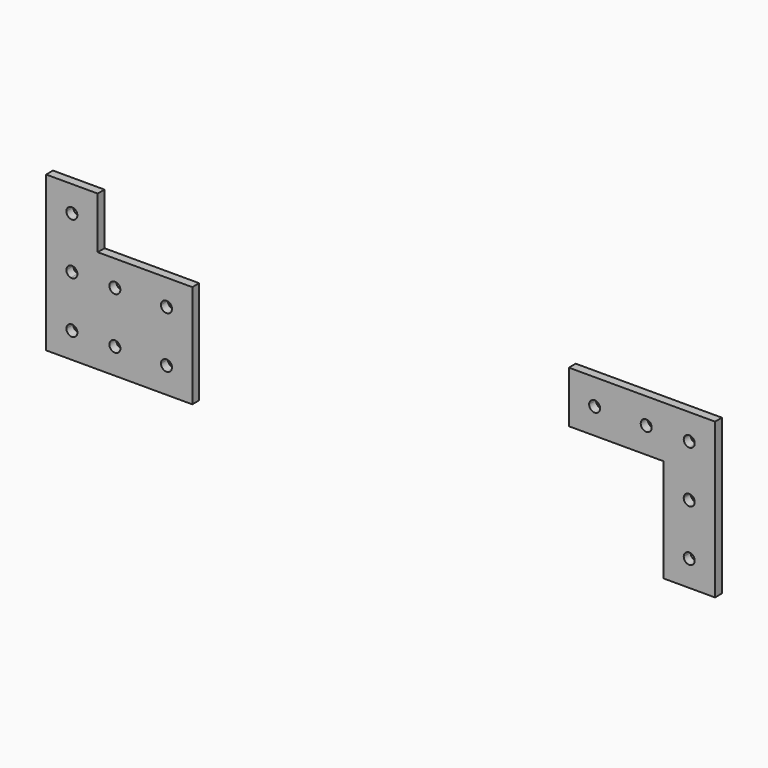
from build123d import *

# Parameters (mm, degrees)
F1_DEPTH = 6.35


with BuildPart() as f1:
    # F0 (on Front) → F1 (new body)
    with BuildSketch(Plane.XZ):
        Polygon((-246.962117, -57.15), (-139.012117, -57.15), (-139.012117, 19.05), (-208.862117, 19.05), (-208.862117, 57.15), (-246.962117, 57.15), align=None)
        with BuildLine():
            ThreePointArc((-223.848117, -38.1), (-223.856818, -38.365795), (-223.882884, -38.630451))
            ThreePointArc((-223.882884, -38.630451), (-228.177912, -42.155299), (-231.976117, -38.1))
            ThreePointArc((-231.976117, -38.1), (-227.912117, -34.036), (-223.848117, -38.1))
        make_face(mode=Mode.SUBTRACT)
        with BuildLine():
            ThreePointArc((-200.226117, -38.1), (-196.162117, -34.036), (-192.098117, -38.1))
            ThreePointArc((-192.098117, -38.1), (-196.162117, -42.164), (-200.226117, -38.1))
        make_face(mode=Mode.SUBTRACT)
        with BuildLine():
            ThreePointArc((-162.126117, -38.1), (-160.888387, -35.179676), (-157.929123, -34.038177))
            ThreePointArc((-157.929123, -34.038177), (-155.141793, -35.27373), (-153.998117, -38.1))
            ThreePointArc((-153.998117, -38.1), (-158.062117, -42.164), (-162.126117, -38.1))
        make_face(mode=Mode.SUBTRACT)
        with BuildLine():
            ThreePointArc((-155.188423, 2.873669), (-154.136594, -1.051838), (-157.010253, -3.925516))
            ThreePointArc((-157.010253, -3.925516), (-160.536114, -3.224195), (-162.126117, 0))
            ThreePointArc((-162.126117, 0), (-159.617334, 3.75465), (-155.188423, 2.873669))
        make_face(mode=Mode.SUBTRACT)
        with BuildLine():
            ThreePointArc((-223.848117, 0), (-225.333938, -3.14151), (-228.704952, -3.985914))
            ThreePointArc((-228.704952, -3.985914), (-231.053628, -2.578179), (-231.976117, 0))
            ThreePointArc((-231.976117, 0), (-227.912117, 4.064), (-223.848117, 0))
        make_face(mode=Mode.SUBTRACT)
        with BuildLine():
            ThreePointArc((-192.098117, 0), (-196.162117, -4.064), (-200.226117, 0))
            ThreePointArc((-200.226117, 0), (-196.162117, 4.064), (-192.098117, 0))
        make_face(mode=Mode.SUBTRACT)
        with BuildLine():
            ThreePointArc((-223.848117, 38.1), (-224.39259, 36.068), (-225.880116, 34.580473))
            ThreePointArc((-225.880116, 34.580473), (-229.944117, 34.580473), (-231.976117, 38.1))
            ThreePointArc((-231.976117, 38.1), (-227.912117, 42.164), (-223.848117, 38.1))
        make_face(mode=Mode.SUBTRACT)
        Polygon((246.962117, 57.15), (139.012117, 57.15), (139.012117, 19.05), (208.862117, 19.05), (208.862117, -57.15), (246.962117, -57.15), align=None)
        with BuildLine():
            ThreePointArc((223.848117, -38.1), (224.39259, -36.068), (225.880116, -34.580473))
            ThreePointArc((225.880116, -34.580473), (229.944117, -34.580473), (231.976117, -38.1))
            ThreePointArc((231.976117, -38.1), (227.912117, -42.164), (223.848117, -38.1))
        make_face(mode=Mode.SUBTRACT)
        with BuildLine():
            ThreePointArc((223.848117, 0), (223.867686, 0.398335), (223.926203, 0.792834))
            ThreePointArc((223.926203, 0.792834), (228.310452, 4.044431), (231.976117, 0))
            ThreePointArc((231.976117, 0), (227.912117, -4.064), (223.848117, 0))
        make_face(mode=Mode.SUBTRACT)
        with BuildLine():
            ThreePointArc((162.126117, 38.1), (162.106548, 37.701662), (162.04803, 37.307161))
            ThreePointArc((162.04803, 37.307161), (157.66378, 34.055569), (153.998117, 38.1))
            ThreePointArc((153.998117, 38.1), (158.062117, 42.164), (162.126117, 38.1))
        make_face(mode=Mode.SUBTRACT)
        with BuildLine():
            ThreePointArc((192.098117, 38.1), (196.162117, 42.164), (200.226117, 38.1))
            ThreePointArc((200.226117, 38.1), (196.162117, 34.036), (192.098117, 38.1))
        make_face(mode=Mode.SUBTRACT)
        with BuildLine():
            ThreePointArc((231.976117, 38.1), (230.785799, 35.226318), (227.912117, 34.036))
            ThreePointArc((227.912117, 34.036), (224.687931, 35.625991), (223.986593, 39.151834))
            ThreePointArc((223.986593, 39.151834), (228.442572, 42.129232), (231.976117, 38.1))
        make_face(mode=Mode.SUBTRACT)
    extrude(amount=F1_DEPTH)


solid = f1.part
